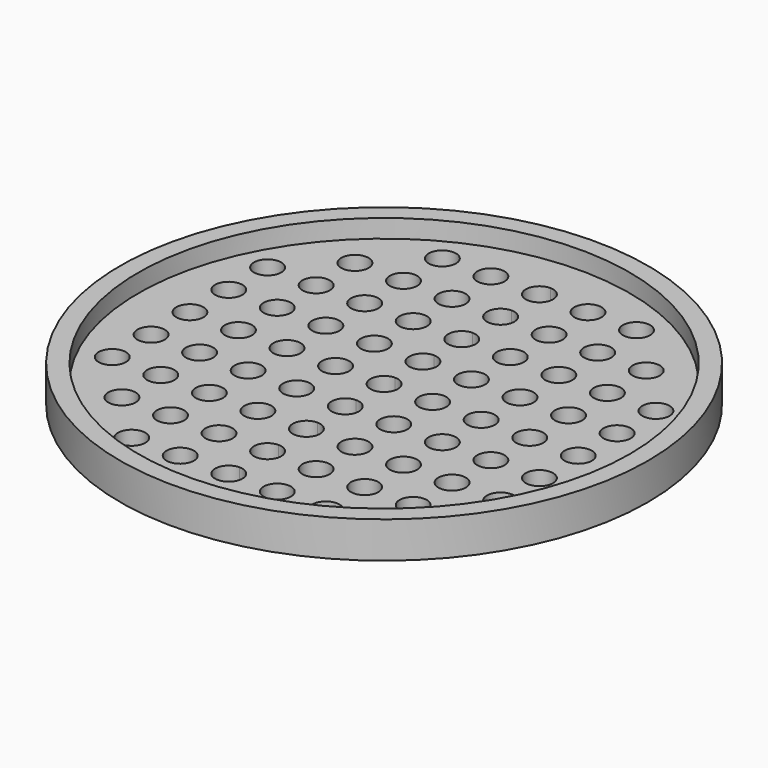
from build123d import *

# Parameters (mm, degrees)
F0_R     = 40.5
F0_R_2   = 2.25
F1_DEPTH = 3
F0_R_3   = 43.5
F2_DEPTH = 6


with BuildPart() as f1:
    # F0 (on Top) → F1 (new body)
    with BuildSketch(Plane.XY):
        Circle(F0_R)
        with Locations((-24, -24)):
            Circle(F0_R_2, mode=Mode.SUBTRACT)
        with Locations((-16, -32)):
            Circle(F0_R_2, mode=Mode.SUBTRACT)
        with Locations((-16, -24)):
            Circle(F0_R_2, mode=Mode.SUBTRACT)
        with Locations((-8, -32)):
            Circle(F0_R_2, mode=Mode.SUBTRACT)
        with Locations((-8, -24)):
            Circle(F0_R_2, mode=Mode.SUBTRACT)
        with Locations((-32, -16)):
            Circle(F0_R_2, mode=Mode.SUBTRACT)
        with Locations((-24, -16)):
            Circle(F0_R_2, mode=Mode.SUBTRACT)
        with Locations((-32, -8)):
            Circle(F0_R_2, mode=Mode.SUBTRACT)
        with Locations((-24, -8)):
            Circle(F0_R_2, mode=Mode.SUBTRACT)
        with Locations((-16, -16)):
            Circle(F0_R_2, mode=Mode.SUBTRACT)
        with Locations((-8, -16)):
            Circle(F0_R_2, mode=Mode.SUBTRACT)
        with Locations((-16, -8)):
            Circle(F0_R_2, mode=Mode.SUBTRACT)
        with Locations((-8, -8)):
            Circle(F0_R_2, mode=Mode.SUBTRACT)
        with BuildLine():
            ThreePointArc((0, -34.25), (-2.25, -32), (0, -29.75))
            ThreePointArc((0, -29.75), (1.59099, -30.40901), (2.25, -32))
            ThreePointArc((2.25, -32), (1.59099, -33.59099), (0, -34.25))
        make_face(mode=Mode.SUBTRACT)
        with Locations((8, -32)):
            Circle(F0_R_2, mode=Mode.SUBTRACT)
        with BuildLine():
            ThreePointArc((0, -26.25), (-2.25, -24), (0, -21.75))
            ThreePointArc((0, -21.75), (1.59099, -22.40901), (2.25, -24))
            ThreePointArc((2.25, -24), (1.59099, -25.59099), (0, -26.25))
        make_face(mode=Mode.SUBTRACT)
        with Locations((8, -24)):
            Circle(F0_R_2, mode=Mode.SUBTRACT)
        with Locations((16, -32)):
            Circle(F0_R_2, mode=Mode.SUBTRACT)
        with Locations((16, -24)):
            Circle(F0_R_2, mode=Mode.SUBTRACT)
        with Locations((24, -24)):
            Circle(F0_R_2, mode=Mode.SUBTRACT)
        with BuildLine():
            ThreePointArc((0, -18.25), (-2.25, -16), (0, -13.75))
            ThreePointArc((0, -13.75), (1.59099, -14.40901), (2.25, -16))
            ThreePointArc((2.25, -16), (1.59099, -17.59099), (0, -18.25))
        make_face(mode=Mode.SUBTRACT)
        with Locations((8, -16)):
            Circle(F0_R_2, mode=Mode.SUBTRACT)
        with Locations((16, -16)):
            Circle(F0_R_2, mode=Mode.SUBTRACT)
        with BuildLine():
            ThreePointArc((0, -10.25), (-2.25, -8), (0, -5.75))
            ThreePointArc((0, -5.75), (1.59099, -6.40901), (2.25, -8))
            ThreePointArc((2.25, -8), (1.59099, -9.59099), (0, -10.25))
        make_face(mode=Mode.SUBTRACT)
        with Locations((8, -8)):
            Circle(F0_R_2, mode=Mode.SUBTRACT)
        with Locations((16, -8)):
            Circle(F0_R_2, mode=Mode.SUBTRACT)
        with Locations((24, -16)):
            Circle(F0_R_2, mode=Mode.SUBTRACT)
        with Locations((32, -16)):
            Circle(F0_R_2, mode=Mode.SUBTRACT)
        with Locations((24, -8)):
            Circle(F0_R_2, mode=Mode.SUBTRACT)
        with Locations((32, -8)):
            Circle(F0_R_2, mode=Mode.SUBTRACT)
        with Locations((-32, 0)):
            Circle(F0_R_2, mode=Mode.SUBTRACT)
        with Locations((-24, 0)):
            Circle(F0_R_2, mode=Mode.SUBTRACT)
        with Locations((-32, 8)):
            Circle(F0_R_2, mode=Mode.SUBTRACT)
        with Locations((-24, 8)):
            Circle(F0_R_2, mode=Mode.SUBTRACT)
        with Locations((-32, 16)):
            Circle(F0_R_2, mode=Mode.SUBTRACT)
        with Locations((-24, 16)):
            Circle(F0_R_2, mode=Mode.SUBTRACT)
        with Locations((-16, 0)):
            Circle(F0_R_2, mode=Mode.SUBTRACT)
        with Locations((-16, 8)):
            Circle(F0_R_2, mode=Mode.SUBTRACT)
        with Locations((-8, 0)):
            Circle(F0_R_2, mode=Mode.SUBTRACT)
        with Locations((-8, 8)):
            Circle(F0_R_2, mode=Mode.SUBTRACT)
        with Locations((-16, 16)):
            Circle(F0_R_2, mode=Mode.SUBTRACT)
        with Locations((-8, 16)):
            Circle(F0_R_2, mode=Mode.SUBTRACT)
        with Locations((-24, 24)):
            Circle(F0_R_2, mode=Mode.SUBTRACT)
        with Locations((-16, 24)):
            Circle(F0_R_2, mode=Mode.SUBTRACT)
        with Locations((-16, 32)):
            Circle(F0_R_2, mode=Mode.SUBTRACT)
        with Locations((-8, 24)):
            Circle(F0_R_2, mode=Mode.SUBTRACT)
        with Locations((-8, 32)):
            Circle(F0_R_2, mode=Mode.SUBTRACT)
        with BuildLine():
            ThreePointArc((0, 2.25), (1.59099, 1.59099), (2.25, 0))
            ThreePointArc((2.25, 0), (1.59099, -1.59099), (0, -2.25))
            ThreePointArc((0, -2.25), (-2.25, 0), (0, 2.25))
        make_face(mode=Mode.SUBTRACT)
        with BuildLine():
            ThreePointArc((10.25, 0), (8, -2.25), (5.75, 0))
            ThreePointArc((5.75, 0), (8, 2.25), (10.25, 0))
        make_face(mode=Mode.SUBTRACT)
        with BuildLine():
            ThreePointArc((2.25, 8), (1.59099, 6.40901), (0, 5.75))
            ThreePointArc((0, 5.75), (-2.25, 8), (0, 10.25))
            ThreePointArc((0, 10.25), (1.59099, 9.59099), (2.25, 8))
        make_face(mode=Mode.SUBTRACT)
        with Locations((8, 8)):
            Circle(F0_R_2, mode=Mode.SUBTRACT)
        with BuildLine():
            ThreePointArc((18.25, 0), (16, -2.25), (13.75, 0))
            ThreePointArc((13.75, 0), (16, 2.25), (18.25, 0))
        make_face(mode=Mode.SUBTRACT)
        with Locations((16, 8)):
            Circle(F0_R_2, mode=Mode.SUBTRACT)
        with BuildLine():
            ThreePointArc((2.25, 16), (1.59099, 14.40901), (0, 13.75))
            ThreePointArc((0, 13.75), (-2.25, 16), (0, 18.25))
            ThreePointArc((0, 18.25), (1.59099, 17.59099), (2.25, 16))
        make_face(mode=Mode.SUBTRACT)
        with Locations((8, 16)):
            Circle(F0_R_2, mode=Mode.SUBTRACT)
        with Locations((16, 16)):
            Circle(F0_R_2, mode=Mode.SUBTRACT)
        with BuildLine():
            ThreePointArc((26.25, 0), (24, -2.25), (21.75, 0))
            ThreePointArc((21.75, 0), (24, 2.25), (26.25, 0))
        make_face(mode=Mode.SUBTRACT)
        with BuildLine():
            ThreePointArc((34.25, 0), (32, -2.25), (29.75, 0))
            ThreePointArc((29.75, 0), (32, 2.25), (34.25, 0))
        make_face(mode=Mode.SUBTRACT)
        with Locations((24, 8)):
            Circle(F0_R_2, mode=Mode.SUBTRACT)
        with Locations((32, 8)):
            Circle(F0_R_2, mode=Mode.SUBTRACT)
        with Locations((24, 16)):
            Circle(F0_R_2, mode=Mode.SUBTRACT)
        with Locations((32, 16)):
            Circle(F0_R_2, mode=Mode.SUBTRACT)
        with BuildLine():
            ThreePointArc((2.25, 24), (1.59099, 22.40901), (0, 21.75))
            ThreePointArc((0, 21.75), (-2.25, 24), (0, 26.25))
            ThreePointArc((0, 26.25), (1.59099, 25.59099), (2.25, 24))
        make_face(mode=Mode.SUBTRACT)
        with Locations((8, 24)):
            Circle(F0_R_2, mode=Mode.SUBTRACT)
        with BuildLine():
            ThreePointArc((2.25, 32), (1.59099, 30.40901), (0, 29.75))
            ThreePointArc((0, 29.75), (-2.25, 32), (0, 34.25))
            ThreePointArc((0, 34.25), (1.59099, 33.59099), (2.25, 32))
        make_face(mode=Mode.SUBTRACT)
        with Locations((8, 32)):
            Circle(F0_R_2, mode=Mode.SUBTRACT)
        with Locations((16, 24)):
            Circle(F0_R_2, mode=Mode.SUBTRACT)
        with Locations((16, 32)):
            Circle(F0_R_2, mode=Mode.SUBTRACT)
        with Locations((24, 24)):
            Circle(F0_R_2, mode=Mode.SUBTRACT)
    extrude(amount=F1_DEPTH)

    # F0 (on Top) → F2 (join)
    with BuildSketch(Plane.XY):
        Circle(F0_R_3)
        Circle(F0_R, mode=Mode.SUBTRACT)
    extrude(amount=F2_DEPTH)


solid = f1.part
